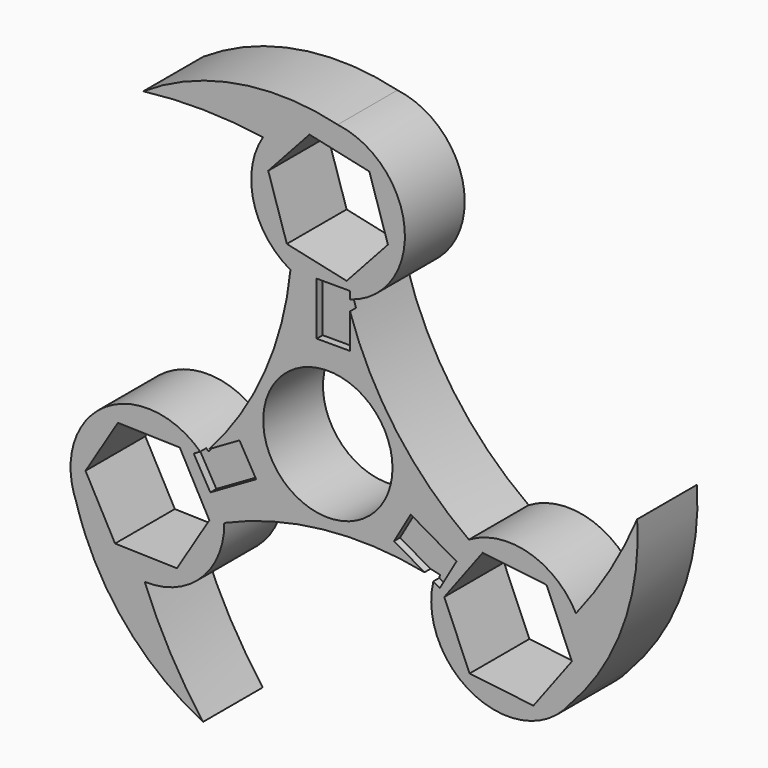
from build123d import *

# Parameters (mm, degrees)
F0_R     = 10.9855
F1_DEPTH = 12.7
F2_W     = 5.655189
F2_H     = 8.981772
F3_DEPTH = 1.27


with BuildPart() as f1:
    # F0 (on Front) → F1 (new body)
    with BuildSketch(Plane.XZ):
        with BuildLine():
            ThreePointArc((-6.360809, 24.00158), (-11.117425, 6.479342), (-21.316083, -8.542029))
            ThreePointArc((-21.316083, -8.542029), (-31.558535, -4.631694), (-41.171763, -9.902784))
            Line((-41.171763, -9.902784), (-41.171763, -17.360528))
            Line((-41.171763, -17.360528), (-35.683101, -8.411922))
            Line((-35.683101, -8.411922), (-25.163529, -8.691618))
            Line((-25.163529, -8.691618), (-20.145967, -17.941683))
            Line((-20.145967, -17.941683), (-25.647977, -26.912052))
            Line((-25.647977, -26.912052), (-36.167549, -26.632355))
            Line((-36.167549, -26.632355), (-41.171763, -17.406898))
            Line((-41.171763, -17.406898), (-41.171763, -27.080146))
            ThreePointArc((-41.171763, -27.080146), (-33.122191, -39.571535), (-21.212272, -48.458844))
            ThreePointArc((-21.212272, -48.458844), (-26.776178, -39.923045), (-31.136971, -30.714332))
            ThreePointArc((-31.136971, -30.714332), (-21.543573, -27.009484), (-17.605574, -17.509412))
            ThreePointArc((-17.605574, -17.509412), (-0.044829, -12.950713), (18.055655, -14.189255))
            ThreePointArc((18.055655, -14.189255), (24.810198, -29.419446), (41.032453, -25.621946))
            ThreePointArc((41.032453, -25.621946), (50.096223, -11.088822), (52.572726, 5.859055))
            ThreePointArc((52.572726, 5.859055), (47.962461, -3.227328), (42.167877, -11.608242))
            ThreePointArc((42.167877, -11.608242), (34.162685, -5.152539), (23.966383, -6.492168))
            ThreePointArc((23.966383, -6.492168), (11.169988, 6.388301), (3.260428, 22.731284))
            ThreePointArc((3.260428, 22.731284), (13.072888, 36.195984), (1.67303, 48.346119))
            ThreePointArc((1.67303, 48.346119), (-15.44491, 48.929013), (-31.360454, 42.599789))
            ThreePointArc((-31.360454, 42.599789), (-21.186282, 43.150373), (-11.030906, 42.322574))
            ThreePointArc((-11.030906, 42.322574), (-12.619113, 32.162023), (-6.360809, 24.00158))
        make_face()
        Circle(F0_R, mode=Mode.SUBTRACT)
        Polygon((37.166687, -8.97331), (41.477768, -19.011964), (34.939579, -27.764796), (24.09031, -26.478974), (19.77923, -16.440321), (26.317418, -7.687489), align=None, mode=Mode.SUBTRACT)
        Polygon((7.046263, 43.085256), (10.207559, 33.166528), (3.198336, 25.469401), (-6.972183, 27.691002), (-10.133479, 37.609731), (-3.124256, 45.306858), align=None, mode=Mode.SUBTRACT)
        with BuildLine():
            Line((-41.171763, -17.360528), (-41.171763, -9.902784))
            ThreePointArc((-41.171763, -9.902784), (-43.63394, -16.110682), (-42.705482, -22.724174))
            ThreePointArc((-42.705482, -22.724174), (-41.998805, -24.92335), (-41.171763, -27.080146))
            Line((-41.171763, -27.080146), (-41.171763, -17.406898))
            Line((-41.171763, -17.406898), (-41.185111, -17.38229))
            Line((-41.185111, -17.38229), (-41.171763, -17.360528))
        make_face()
    extrude(amount=F1_DEPTH)

    # F2 (on face) → F3 (cut)
    with BuildSketch(Plane.XZ.offset(12.7)):
        with Locations((0.939673, 19.659774)):
            Rectangle(F2_W, F2_H)
        Polygon((-22.798719, -8.812781), (-19.971124, -13.710318), (-12.192681, -9.219432), (-15.020276, -4.321895), align=None)
        Polygon((19.031452, -15.337879), (21.859046, -10.440342), (14.080603, -5.949455), (11.253008, -10.846993), align=None)
    extrude(amount=-F3_DEPTH, mode=Mode.SUBTRACT)


solid = f1.part
